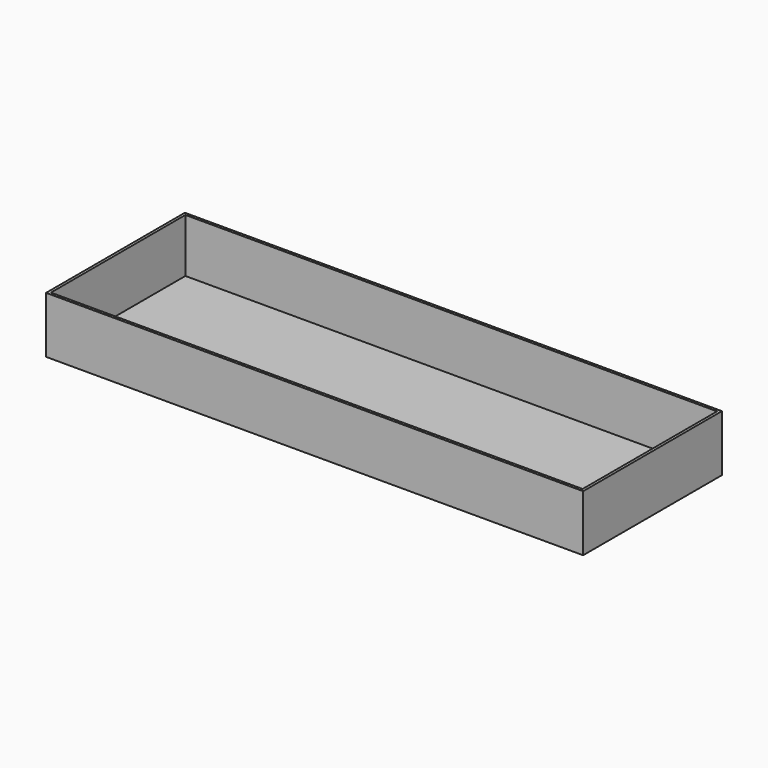
from build123d import *

# Parameters (mm, degrees)
F0_W     = 200
F0_H     = 64.601768
F1_DEPTH = 1
F2_W     = 1
F2_H     = 64.601768
F3_DEPTH = 20
F4_W     = 199
F4_H     = 1
F5_DEPTH = 20
F6_W     = 199
F6_H     = 1
F7_DEPTH = 20
F8_W     = 1
F8_H     = 62.601768
F9_DEPTH = 20


with BuildPart() as f1:
    # F0 (on Top) → F1 (new body)
    with BuildSketch(Plane.XY):
        Rectangle(F0_W, F0_H)
    extrude(amount=F1_DEPTH)

    # F2 (on face) → F3 (join)
    with BuildSketch(Plane.XY.offset(1)):
        with Locations((-99.5, 0)):
            Rectangle(F2_W, F2_H)
    extrude(amount=F3_DEPTH)

    # F4 (on face) → F5 (join)
    with BuildSketch(Plane.XY.offset(1)):
        with Locations((0.5, 31.800884)):
            Rectangle(F4_W, F4_H)
    extrude(amount=F5_DEPTH)

    # F6 (on face) → F7 (join)
    with BuildSketch(Plane.XY.offset(1)):
        with Locations((0.5, -31.800884)):
            Rectangle(F6_W, F6_H)
    extrude(amount=F7_DEPTH)

    # F8 (on face) → F9 (join)
    with BuildSketch(Plane.XY.offset(1)):
        with Locations((99.5, 0)):
            Rectangle(F8_W, F8_H)
    extrude(amount=F9_DEPTH)


solid = f1.part
